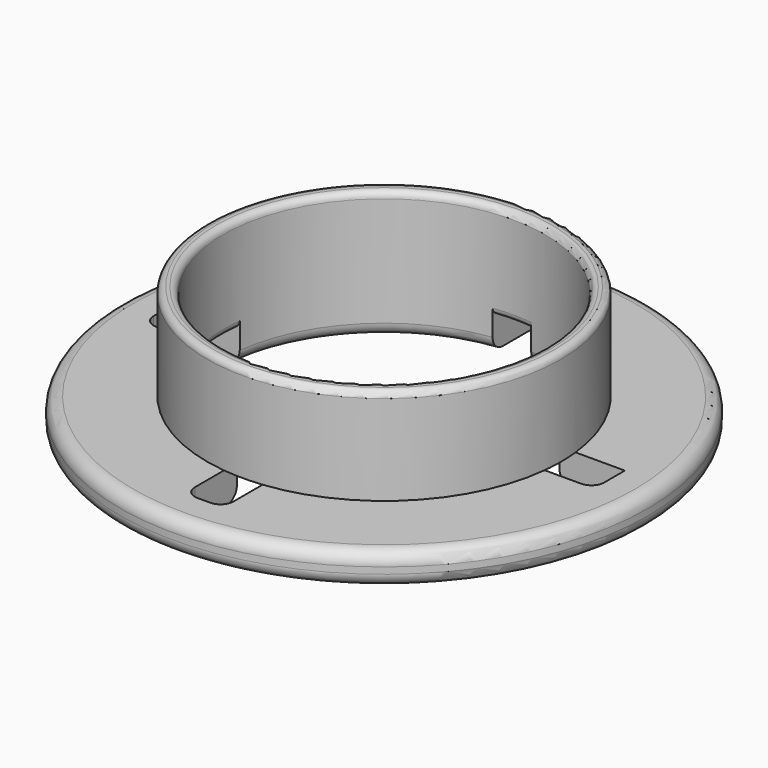
from build123d import *

# Parameters (mm, degrees)
SKETCH_R        = 41
PAD_DEPTH       = 5
SKETCH001_R     = 27.5
PAD001_DEPTH    = 15
SKETCH002_R     = 25
POCKET_DEPTH    = 20.001
POCKET001_DEPTH = 5
FILLET_R        = 2
FILLET001_R     = 2
FILLET002_R     = 1
FILLET003_R     = 2


with BuildPart() as part:
    # Sketch → Pad (new body)
    with BuildSketch(Plane.XY):
        Circle(SKETCH_R)
    extrude(amount=PAD_DEPTH)

    # Sketch001 (on Face3 of Pad) → Pad001 (join)
    with BuildSketch(Plane.XY.offset(5)):
        Circle(SKETCH001_R)
    extrude(amount=PAD001_DEPTH)

    # Sketch002 (on Face5 of Pad001) → Pocket (cut, through all)
    with BuildSketch(Plane.XY.offset(20)):
        Circle(SKETCH002_R)
    extrude(amount=-POCKET_DEPTH, mode=Mode.SUBTRACT)

    # Sketch003 (on Face2 of Pocket) → Pocket001 (cut)
    with BuildSketch(Plane(origin=(0, 0, 0), x_dir=(1, 0, 0), z_dir=(0, 0, -1))):
        Polygon((-3, 35), (-3, 3), (-35, 3), (-35, -3), (-3, -3), (-3, -35), (3, -35), (3, -3), (35, -3), (35, 3), (3, 3), (3, 35), align=None)
    extrude(amount=-POCKET001_DEPTH, mode=Mode.SUBTRACT)

    # Fillet
    fillet_edges = [part.edges().sort_by_distance(p)[0] for p in [
        (-3, -35, 2.5),
        (3, -35, 2.5),
        (35, -3, 2.5),
        (-35, -3, 2.5),
        (-35, 3, 2.5),
        (-3, 35, 2.5),
        (3, 35, 2.5),
    ]]
    fillet(fillet_edges, radius=FILLET_R)

    # Fillet001
    fillet001_edges = [part.edges().sort_by_distance(p)[0] for p in [
        (17.67767, -17.67767, 0),
        (17.67767, 17.67767, 0),
        (-17.67767, 17.67767, 0),
        (-17.67767, -17.67767, 0),
    ]]
    fillet(fillet001_edges, radius=FILLET001_R)

    # Fillet002
    fillet002_edges = [part.edges().sort_by_distance(p)[0] for p in [
        (-27.5, 0, 20),
        (-25, 0, 20),
        (0, -25, 5),
        (24.954796, -1.502717, 5),
        (0, 25, 5),
        (-25, 0, 5),
    ]]
    fillet(fillet002_edges, radius=FILLET002_R)

    # Fillet003
    fillet003_edges = [part.edges().sort_by_distance(p)[0] for p in [
        (-41, 0, 5),
        (-41, 0, 0),
    ]]
    fillet(fillet003_edges, radius=FILLET003_R)


solid = part.part
